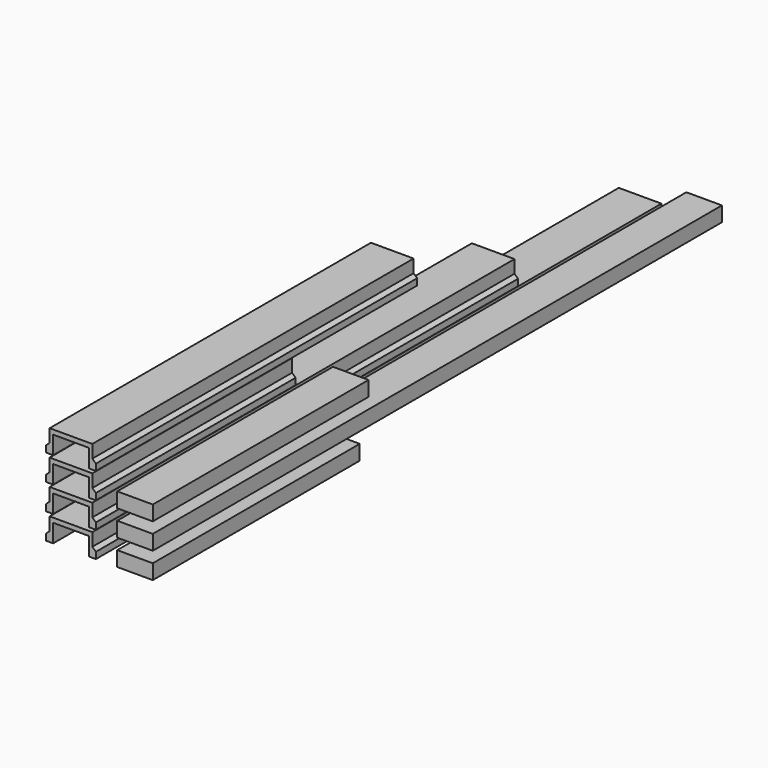
from build123d import *

# Parameters (mm, degrees)
F1_DEPTH = 1100
F2_DEPTH = 816
F3_DEPTH = 386
F4_DEPTH = 621
F5_W     = 55
F5_H     = 23
F6_DEPTH = 400
F7_DEPTH = 1100
F8_DEPTH = 417


with BuildPart() as f1:
    # F0 (on Front) → F1 (new body)
    with BuildSketch(Plane.XZ):
        Polygon((0, 10), (0, 0), (11, 0), (11, 28), (66, 28), (66, 0), (77, 0), (77, 10), (71.5, 15), (71.5, 35), (5.5, 35), (5.5, 15), align=None)
    extrude(amount=-F1_DEPTH)


with BuildPart() as f2:
    # F0 (on Front) → F2 (new body)
    with BuildSketch(Plane.XZ):
        Polygon((0, 50), (0, 40), (11, 40), (11, 68), (66, 68), (66, 40), (77, 40), (77, 50), (71.5, 55), (71.5, 75), (5.5, 75), (5.5, 55), align=None)
    extrude(amount=-F2_DEPTH)


with BuildPart() as f3:
    # F0 (on Front) → F3 (new body)
    with BuildSketch(Plane.XZ):
        Polygon((0, 90), (0, 80), (11, 80), (11, 108), (66, 108), (66, 80), (77, 80), (77, 90), (71.5, 95), (71.5, 115), (5.5, 115), (5.5, 95), align=None)
    extrude(amount=-F3_DEPTH)


with BuildPart() as f4:
    # F0 (on Front) → F4 (new body)
    with BuildSketch(Plane.XZ):
        Polygon((0, 130), (0, 120), (11, 120), (11, 148), (66, 148), (66, 120), (77, 120), (77, 130), (71.5, 135), (71.5, 155), (5.5, 155), (5.5, 135), align=None)
    extrude(amount=-F4_DEPTH)


with BuildPart() as f6:
    # F5 (on Front) → F6 (new body)
    with BuildSketch(Plane.XZ):
        with Locations((137.5, 11.5)):
            Rectangle(F5_W, F5_H)
    extrude(amount=-F6_DEPTH)


with BuildPart() as f7:
    # F5 (on Front) → F7 (new body)
    with BuildSketch(Plane.XZ):
        with Locations((137.5, 51.5)):
            Rectangle(F5_W, F5_H)
    extrude(amount=-F7_DEPTH)


with BuildPart() as f8:
    # F5 (on Front) → F8 (new body)
    with BuildSketch(Plane.XZ):
        with Locations((137.5, 91.5)):
            Rectangle(F5_W, F5_H)
    extrude(amount=-F8_DEPTH)


solid = Compound([f1.part, f2.part, f3.part, f4.part, f6.part, f7.part, f8.part])
